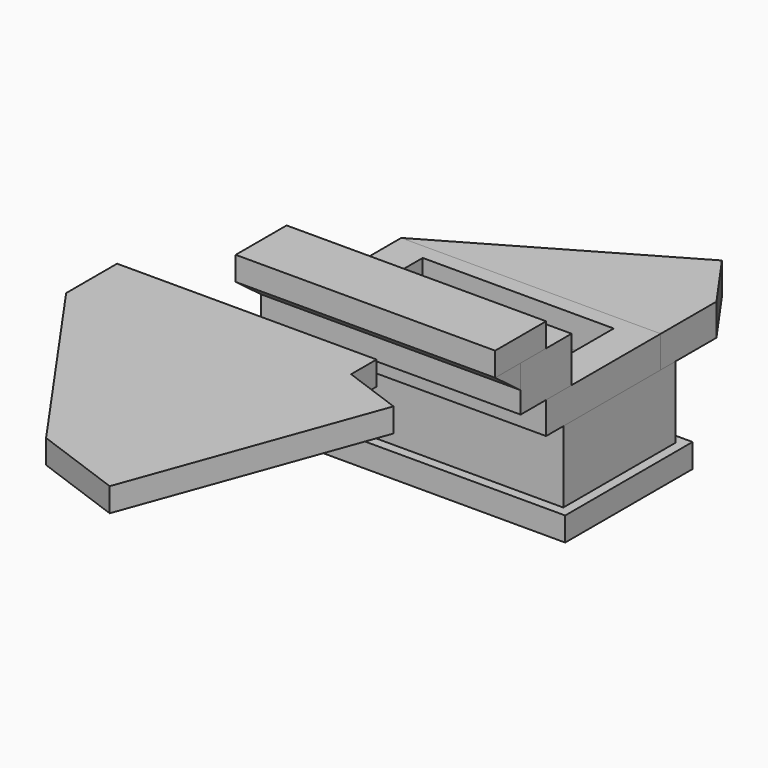
from build123d import *

# Parameters (mm, degrees)
F0_W      = 1750
F0_H      = 1000
F1_DEPTH  = 150
F2_W      = 1630
F2_H      = 880
F2_W_2    = 1200
F2_H_2    = 450
F3_DEPTH  = 450
F4_W      = 1630
F4_H      = 135
F4_H_2    = 765
F4_W_2    = 1200
F4_H_3    = 450
F5_DEPTH  = 200
F6_W      = 1630
F6_H      = 200
F7_DEPTH  = 285
F8_W      = 1630
F8_H      = 400
F9_DEPTH  = 150
F11_DEPTH = 1630
F13_DEPTH = 150
F14_W     = 1615
F14_H     = 3045
F15_DEPTH = 150
F19_DEPTH = 200
F21_DEPTH = 150


with BuildPart() as f1:
    # F0 (on Top) → F1 (new body)
    with BuildSketch(Plane.XY):
        with Locations((772.775441, 407.935686)):
            Rectangle(F0_W, F0_H)
    extrude(amount=F1_DEPTH)


with BuildPart() as f3:
    # F2 (on face) → F3 (new body)
    with BuildSketch(Plane.XY.offset(150)):
        with Locations((772.775441, 407.935686)):
            Rectangle(F2_W, F2_H)
        with Locations((772.775441, 407.935686)):
            Rectangle(F2_W_2, F2_H_2, mode=Mode.SUBTRACT)
    extrude(amount=F3_DEPTH)


with BuildPart() as f5:
    # F4 (on face) → F5 (new body)
    with BuildSketch(Plane.XY.offset(600)):
        with Locations((772.775441, -99.564314)):
            Rectangle(F4_W, F4_H)
        with Locations((772.775441, 350.435686)):
            Rectangle(F4_W, F4_H_2)
        with Locations((772.775441, 407.935686)):
            Rectangle(F4_W_2, F4_H_3, mode=Mode.SUBTRACT)
    extrude(amount=F5_DEPTH)


with BuildPart() as f7:
    # F6 (on face) → F7 (new body)
    with BuildSketch(Plane.XY.offset(800)):
        with Locations((772.775441, -267.064314)):
            Rectangle(F6_W, F6_H)
        with Locations((772.775441, -67.064314)):
            Rectangle(F6_W, F6_H)
    extrude(amount=F7_DEPTH)


with BuildPart() as f9:
    # F8 (on face) → F9 (new body)
    with BuildSketch(Plane.XY.offset(1085)):
        with Locations((772.775441, -367.064314)):
            Rectangle(F8_W, F8_H)
        with Locations((772.775441, -367.064314)):
            Rectangle(F8_W, F8_H)
    extrude(amount=F9_DEPTH)


with BuildPart() as f11:
    # F10 (on face) → F11 (new body)
    with BuildSketch(Plane.YZ.offset(1587.775441)):
        Polygon((-367.064314, 935), (-367.064314, 1085), (-567.064314, 1085), align=None)
    extrude(amount=-F11_DEPTH)


with BuildPart() as f13:
    # F12 (on face) → F13 (new body)
    with BuildSketch(Plane.XY.offset(1235)):
        Polygon((1759.989725, -1001.661468), (129.989725, -1001.661468), (129.989725, -1201.661468), (-70.010275, -1201.661468), (-70.010275, -2831.661468), (1759.989725, -2831.661468), align=None)
    extrude(amount=F13_DEPTH)


with BuildPart() as f15:
    # F14 (on face) → F15 (new body)
    with BuildSketch(Plane.XY.offset(1385)):
        with Locations((-1271.28089, -3268.740692)):
            Rectangle(F14_W, F14_H)
    extrude(amount=F15_DEPTH)


with BuildPart() as f19:
    # F18 (on face) → F19 (new body)
    with BuildSketch(Plane.XY.offset(600)):
        Polygon((156.961284, 847.935686), (1587.775441, 847.935686), (1587.775441, 1170.63677), (1335.833747, 1528.55802), align=None)
        Polygon((-42.224559, 732.935686), (1587.775441, 732.935686), (1587.775441, 847.935686), (156.961284, 847.935686), align=None)
    extrude(amount=F19_DEPTH)


with BuildPart() as f21:
    # F20 (on face) → F21 (new body)
    with BuildSketch(Plane.XY.offset(1235)):
        Polygon((1372.252827, -1428.867269), (1372.252827, -1228.867269), (-257.747173, -1228.867269), (-257.747173, -1628.867269), (626.821469, -2892.162212), (1190.637041, -3097.374298), (1748.129875, -1565.675326), align=None)
    extrude(amount=F21_DEPTH)


solid = Compound([f1.part, f3.part, f5.part, f7.part, f9.part, f11.part, f19.part, f21.part])
